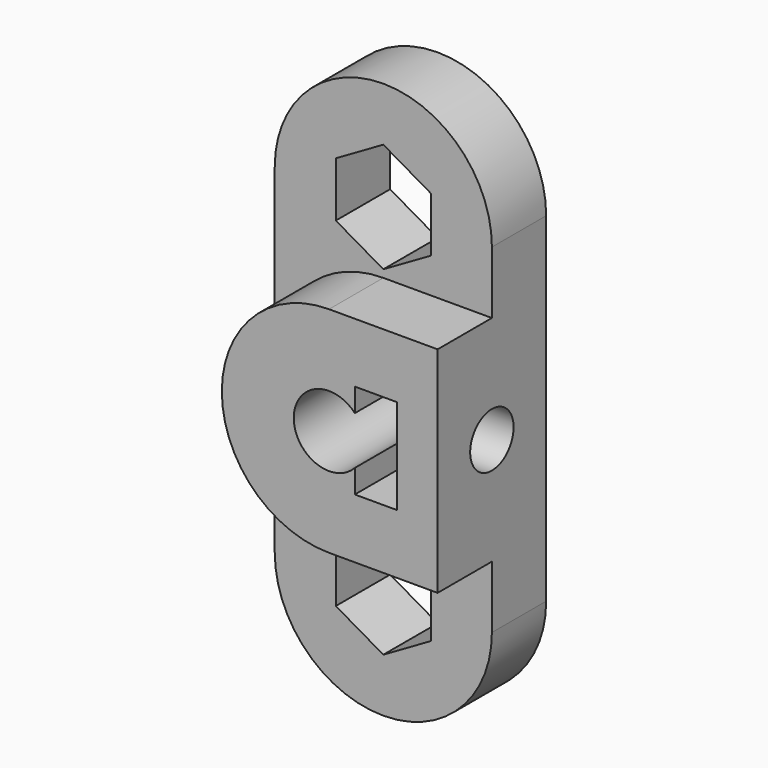
from build123d import *

# Parameters (mm, degrees)
F1_DEPTH = 5
F3_DEPTH = 5
F4_R     = 2
F5_DEPTH = 6.1


with BuildPart() as f1:
    # F0 (on Front) → F1 (new body)
    with BuildSketch(Plane.XZ):
        with BuildLine():
            ThreePointArc((-8, -12.5), (0, -20.5), (8, -12.5))
            Line((8, -12.5), (8, 12.5))
            ThreePointArc((8, 12.5), (0, 20.5), (-8, 12.5))
            Line((-8, 12.5), (-8, -12.5))
        make_face()
        Polygon((0, -8.458548), (3.5, -10.479274), (3.5, -14.520726), (0, -16.541452), (-3.5, -14.520726), (-3.5, -10.479274), align=None, mode=Mode.SUBTRACT)
        with BuildLine():
            ThreePointArc((1.9, -1.774824), (-2.6, 0), (1.9, 1.774824))
            Line((1.9, 1.774824), (1.9, 3.5))
            Line((1.9, 3.5), (5, 3.5))
            Line((5, 3.5), (5, -3.5))
            Line((5, -3.5), (1.9, -3.5))
            Line((1.9, -3.5), (1.9, -1.774824))
        make_face(mode=Mode.SUBTRACT)
        Polygon((0, 16.541452), (3.5, 14.520726), (3.5, 10.479274), (0, 8.458548), (-3.5, 10.479274), (-3.5, 14.520726), align=None, mode=Mode.SUBTRACT)
    extrude(amount=F1_DEPTH)

    # F2 (on face) → F3 (join)
    with BuildSketch(Plane.XZ.offset(5)):
        with BuildLine():
            Line((8, 7.9), (0, 7.9))
            ThreePointArc((0, 7.9), (-7.9, 0), (0, -7.9))
            Line((0, -7.9), (8, -7.9))
            Line((8, -7.9), (8, 7.9))
        make_face()
        with BuildLine():
            ThreePointArc((1.9, -1.774824), (-2.6, 0), (1.9, 1.774824))
            Line((1.9, 1.774824), (1.9, 3.5))
            Line((1.9, 3.5), (5, 3.5))
            Line((5, 3.5), (5, -3.5))
            Line((5, -3.5), (1.9, -3.5))
            Line((1.9, -3.5), (1.9, -1.774824))
        make_face(mode=Mode.SUBTRACT)
    extrude(amount=F3_DEPTH)

    # F4 (on face) → F5 (cut, through all)
    with BuildSketch(Plane.YZ.offset(8)):
        with Locations((-5, 0)):
            Circle(F4_R)
    extrude(amount=-F5_DEPTH, mode=Mode.SUBTRACT)


solid = f1.part
